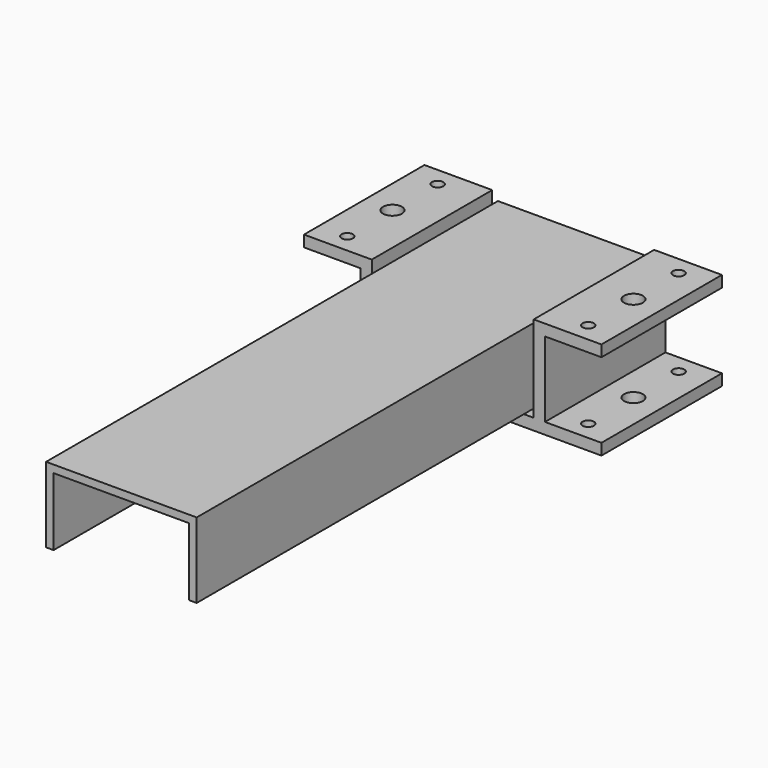
from build123d import *

# Parameters (mm, degrees)
F1_DEPTH = 40
F2_R     = 1.5
F3_DEPTH = 18.001
F4_R     = 1.5
F4_R_2   = 2.5
F5_DEPTH = 26.001
F7_DEPTH = 150


with BuildPart() as f1:
    # F0 (on Front) → F1 (new body)
    with BuildSketch(Plane.XZ):
        Polygon((-13.5, -9), (-13.5, 6), (0, 6), (0, 9), (-16.5, 9), (-16.5, -6), (-21.5, -6), (-21.5, 17), (-39.5, 17), (-39.5, 14), (-24.5, 14), (-24.5, -6), (-39.5, -6), (-39.5, -9), (-24.5, -9), align=None)
    extrude(amount=F1_DEPTH)

    # F2 (on face) → F3 (cut, through all)
    with BuildSketch(Plane.XY.offset(9)):
        with Locations((-10, -10)):
            Circle(F2_R)
        with Locations((-10, -30)):
            Circle(F2_R)
    extrude(amount=-F3_DEPTH, mode=Mode.SUBTRACT)

    # F4 (on face) → F5 (cut, through all)
    with BuildSketch(Plane.XY.offset(17)):
        with Locations((-32, -35)):
            Circle(F4_R)
        with Locations((-32, -5)):
            Circle(F4_R)
        with Locations((-32, -20)):
            Circle(F4_R_2)
    extrude(amount=-F5_DEPTH, mode=Mode.SUBTRACT)

    # F6: F1 across face


with BuildPart() as f1_1:
    add(f1.part)
    add(f1.part.mirror(Plane(origin=(0, -20, 7.5), x_dir=(0, 1, 0), z_dir=(1, 0, 0))))


with BuildPart() as f7:
    # F0 (on Front) → F7 (new body)
    with BuildSketch(Plane.XZ):
        Polygon((-20, 14.924206), (-20, -5.075794), (-18, -5.075794), (-18, 12.924206), (18, 12.924206), (18, -5.075794), (20, -5.075794), (20, 14.924206), align=None)
    extrude(amount=F7_DEPTH)


solid = Compound([f1_1.part, f7.part])
